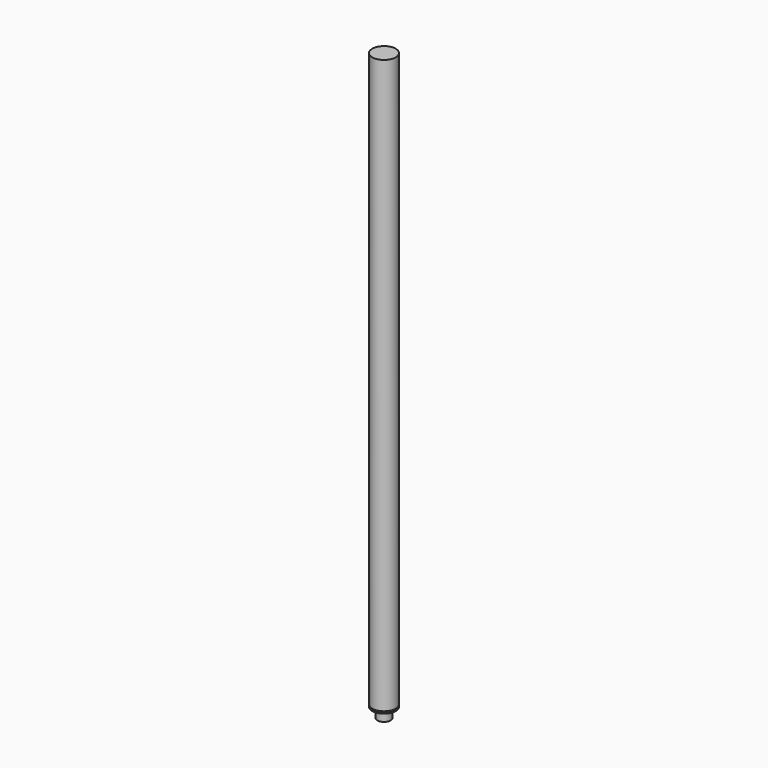
from build123d import *

# Parameters (mm, degrees)
CHAMFER001_SIZE = 5
SKETCH_R        = 108
PAD_DEPTH       = 5280


with BuildPart() as part:
    # Sketch002 → Revolution001 (revolve)
    with BuildSketch(Plane.XZ):
        Polygon((40, 0), (62.5, 0), (62.5, 90), (108, 90), (108, 110), (0, 110), (0, 65), (40, 65), align=None)
    revolve(axis=Axis((0, 0, 0), (0, 0, 1)))

    # Chamfer001
    chamfer001_edges = [part.edges().sort_by_distance(p)[0] for p in [
        (-108, 0, 110),
    ]]
    chamfer(chamfer001_edges, length=CHAMFER001_SIZE)

    # Sketch (on Face4 of Chamfer001) → Pad (new body)
    with BuildSketch(Plane(origin=(0, 0, 110), x_dir=(-1, 0, 0), z_dir=(0, 0, 1))):
        Circle(SKETCH_R)
    extrude(amount=PAD_DEPTH)


with BuildPart() as part_1:
    # Body001 placement: moved
    add(part.part.moved(Location((0, 0, 60))))


solid = part_1.part
